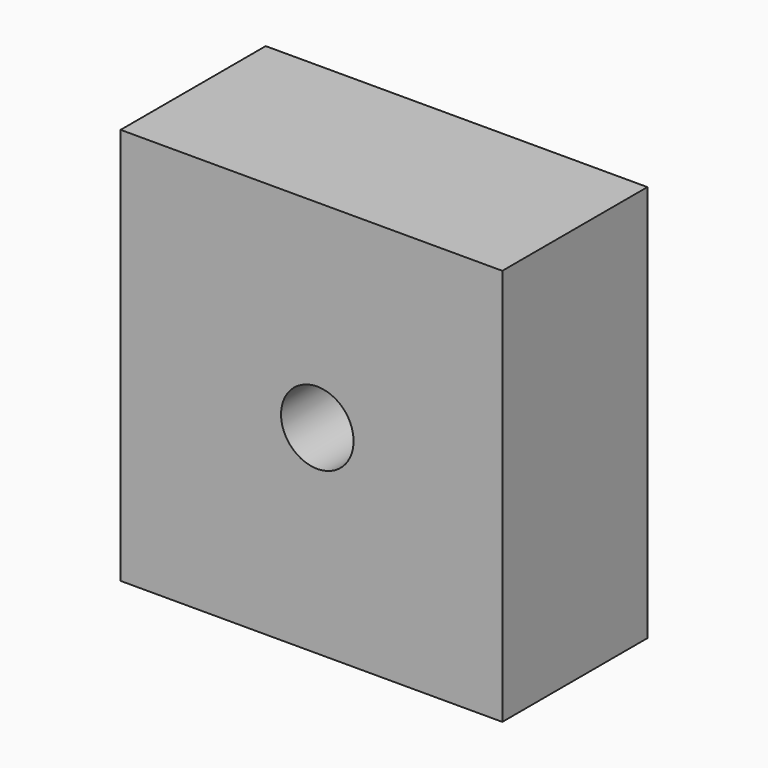
from build123d import *

# Parameters (mm, degrees)
F0_W           = 144.8953971267
F0_H           = 132.3546804488
F1_DEPTH       = 25
F3_W           = 52.6192765683
F3_H           = 54.747434333
F4_DEPTH       = 25
F6_D           = 10
F6_DEPTH       = 50
F6_CBORE_D     = 10
F6_CBORE_DEPTH = 5
F6_TIP         = 3.0043030951


with BuildPart() as f1:
    # F0 (on Front) → F1 (new body)
    with BuildSketch(Plane.XZ):
        with Locations((-90.7013751566, -26.4289211482)):
            Rectangle(F0_W, F0_H)
    extrude(amount=F1_DEPTH)


with BuildPart() as f4:
    # F3 (on Front) → F4 (new body)
    with BuildSketch(Plane.XZ):
        with Locations((-49.9591687694, 10.3274388239)):
            Rectangle(F3_W, F3_H)
    extrude(amount=F4_DEPTH)

    # F6
    with Locations(Plane.XZ.offset(25)):
        with Locations((-49.1547472775, 10.3621119633)):
            CounterBoreHole(F6_D / 2, F6_CBORE_D / 2, F6_CBORE_DEPTH, depth=F6_DEPTH)
            with Locations((0, 0, -(F6_DEPTH + F6_TIP / 2))):  # 118° drill point
                Cone(0, F6_D / 2, F6_TIP, mode=Mode.SUBTRACT)


solid = f4.part
